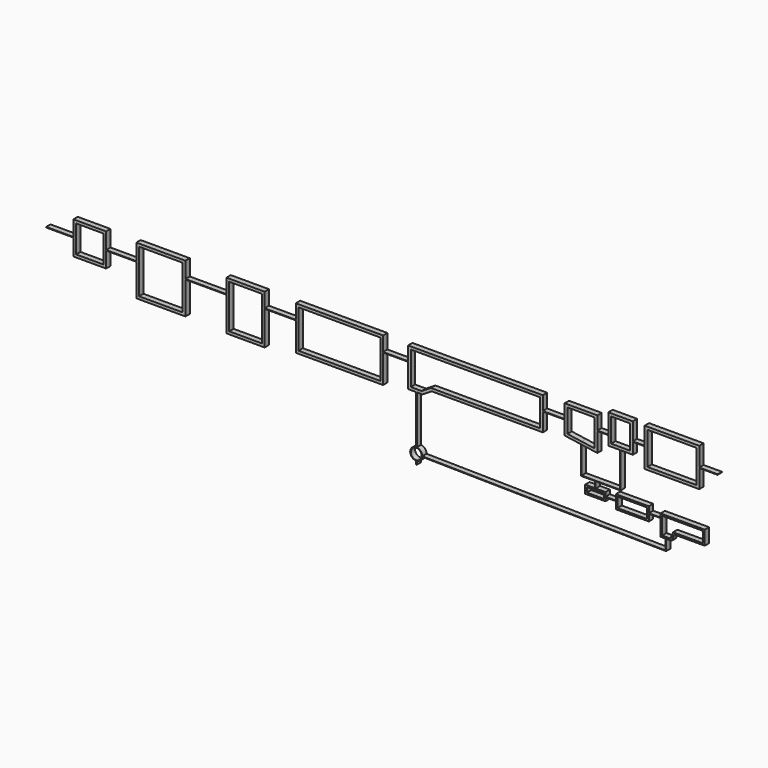
from build123d import *

# Parameters (mm, degrees)
F0_W     = 0.1
F0_H     = 0.5
F0_W_2   = 4.5762195215
F0_H_2   = 0.1
F0_W_3   = 15
F0_H_3   = 7
F0_W_4   = 4
F0_W_5   = 5.7000000263
F0_W_6   = 6
F0_H_4   = 8
F0_W_7   = 2.1349615479
F0_W_8   = 5.4599995956
F0_H_5   = 1.8540623203
F0_H_6   = 1.1455476638
F0_W_9   = 7.5237791166
F0_W_10  = 2
F0_W_11  = 3.1167556109
F0_H_7   = 0.894062461
F0_W_12  = 8
F0_W_13  = 1.8985043958
F0_W_14  = 5.535091728
F0_W_15  = 2.1720023397
F0_W_16  = 5
F0_H_8   = 5
F0_W_17  = 9
F0_H_9   = 6
F0_W_18  = 3.3521689058
F1_DEPTH = 1


with BuildPart() as f1:
    # F0 (on Front) → F1 (new body)
    with BuildSketch(Plane.XZ):
        Polygon((-0.7164276307, -4), (-1.7164276307, -4), (-1.7164276307, 2.0474093835), (21.9873721178, 2.0474093835), (21.9873721178, -2.9525906165), (1.9873721178, -2.9525906165), (0.2835723693, -4), (-0.6164276307, -4), (-0.6164276307, -4.5), (0.4249689693, -4.5), (2.1287687179, -3.4525906165), (22.4873721178, -3.4525906165), (22.4873721178, -0.1), (22.4873721178, 0), (22.4873721178, 2.5474093835), (-2.2164276307, 2.5474093835), (-2.2164276307, 0), (-2.2164276307, -0.1), (-2.2164276307, -4.5), (-0.7164276307, -4.5), align=None)
        with Locations((-0.6664276307, -4.25)):
            Rectangle(F0_W, F0_H)
        with BuildLine():
            Line((-0.6164276307, -4.5), (-0.7164276307, -4.5))
            Line((-0.7164276307, -4.5), (-0.7164276307, -13.3747674979))
            ThreePointArc((-0.7164276307, -13.3747674979), (-0.6663757902, -13.3759068091), (-0.6164276307, -13.3793223828))
            Line((-0.6164276307, -13.3793223828), (-0.6164276307, -4.5))
        make_face()
        with BuildLine():
            ThreePointArc((-0.6164276307, -13.3793223828), (-0.6663757902, -13.3759068091), (-0.7164276307, -13.3747674979))
            ThreePointArc((-0.7164276307, -13.3747674979), (-1.8164276307, -14.4747674979), (-0.7164276307, -15.5747674979))
            Line((-0.7164276307, -15.5747674979), (-0.7164276307, -15.4747674979))
            ThreePointArc((-0.7164276307, -15.4747674979), (-1.4235344119, -13.7676607167), (0.2835723693, -14.4747674979))
            ThreePointArc((0.2835723693, -14.4747674979), (0.025192218, -15.1455878911), (-0.6164276307, -15.469754935))
            Line((-0.6164276307, -15.469754935), (-0.6164276307, -15.5702126129))
            ThreePointArc((-0.6164276307, -15.5702126129), (0.0559267082, -15.2580099731), (0.3775103589, -14.5900917138))
            ThreePointArc((0.3775103589, -14.5900917138), (0.3816245836, -14.5401994065), (0.3834645069, -14.4901715758))
            ThreePointArc((0.3834645069, -14.4901715758), (0.3835454033, -14.4824697256), (0.3835723693, -14.4747674979))
            ThreePointArc((0.3835723693, -14.4747674979), (0.0959762097, -13.7331476491), (-0.6164276307, -13.3793223828))
        make_face()
        with BuildLine():
            Line((-0.7164276307, -15.4747674979), (-0.7164276307, -15.5747674979))
            ThreePointArc((-0.7164276307, -15.5747674979), (-0.6663757902, -15.5736281866), (-0.6164276307, -15.5702126129))
            Line((-0.6164276307, -15.5702126129), (-0.6164276307, -15.469754935))
            ThreePointArc((-0.6164276307, -15.469754935), (-0.6663648557, -15.473513571), (-0.7164276307, -15.4747674979))
        make_face()
        with BuildLine():
            ThreePointArc((-0.6164276307, -15.5702126129), (-0.6663757902, -15.5736281866), (-0.7164276307, -15.5747674979))
            Line((-0.7164276307, -15.5747674979), (-0.7164276307, -16.196783632))
            Line((-0.7164276307, -16.196783632), (-0.6164276307, -16.196783632))
            Line((-0.6164276307, -16.196783632), (-0.6164276307, -15.5702126129))
        make_face()
        with Locations((-4.5045373915, -0.05)):
            Rectangle(F0_W_2, F0_H_2)
        Polygon((-6.7926471522, -5.3350963127), (-6.7926471522, -0.1), (-6.7926471522, 0), (-6.7926471522, 2.6649036873), (-22.7926471522, 2.6649036873), (-22.7926471522, 0), (-22.7926471522, -0.1), (-22.7926471522, -5.3350963127), align=None)
        with Locations((-14.7926471522, -1.3350963127)):
            Rectangle(F0_W_3, F0_H_3, mode=Mode.SUBTRACT)
        with BuildLine():
            Line((44.9668482701, -15.1770115764), (0.3834645069, -14.4901715758))
            ThreePointArc((0.3834645069, -14.4901715758), (0.3816245836, -14.5401994065), (0.3775103589, -14.5900917138))
            Line((0.3775103589, -14.5900917138), (44.9668482701, -15.2770234426))
            Line((44.9668482701, -15.2770234426), (45.0668482701, -15.2785640165))
            Line((45.0668482701, -15.2785640165), (45.0668482701, -15.1785521504))
            Line((45.0668482701, -15.1785521504), (45.0668482701, -13.2785640165))
            Line((45.0668482701, -13.2785640165), (44.9668482701, -13.2785640165))
            Line((44.9668482701, -13.2785640165), (44.9668482701, -15.1770115764))
        make_face()
        with Locations((24.4873721178, -0.05)):
            Rectangle(F0_W_4, F0_H_2)
        Polygon((26.4873721178, 0), (26.4873721178, -0.1), (26.4873721178, -2.6669805495), (29.4873721178, -3.0982994409), (29.5873721178, -3.1126767373), (32.4873721178, -3.5296183324), (32.4873721178, 0), (32.4873721178, 0.1), (32.4873721178, 2.5474093835), (26.4873721178, 2.5474093835), (26.4873721178, 0.0474093835), align=None)
        Polygon((26.9873721178, -2.2337257974), (26.9873721178, 0.0474093835), (26.9873721178, 2.0474093835), (31.9873721178, 2.0474093835), (31.9873721178, -2.9525906165), (29.5873721178, -2.6075355033), align=None, mode=Mode.SUBTRACT)
        Polygon((44.0542930675, -13.2785640165), (44.9668482701, -13.2785640165), (45.0668482701, -13.2785640165), (46.0794034727, -13.2785640165), (46.5562570157, -12.0984218523), (52.1539116397, -12.0984218523), (52.1539116397, -9.4984218523), (44.0542930675, -9.4984218523), (44.0542930675, -10.1705333218), (44.0542930675, -10.2705333218), align=None)
        Polygon((51.8539116397, -11.7984218523), (46.3539116397, -11.7984218523), (45.8770580967, -12.9785640165), (44.3542930675, -12.9785640165), (44.3542930675, -9.7984218523), (51.8539116397, -9.7984218523), align=None, mode=Mode.SUBTRACT)
        with Locations((-25.6426471653, -0.05)):
            Rectangle(F0_W_5, F0_H_2)
        Polygon((-28.4926471785, -6.3350963127), (-28.4926471785, -0.1), (-28.4926471785, 0), (-28.4926471785, 2.6649036873), (-35.4926471785, 2.6649036873), (-35.4926471785, 0), (-35.4926471785, -0.1), (-35.4926471785, -6.3350963127), align=None)
        with Locations((-31.9926471785, -1.8350963127)):
            Rectangle(F0_W_6, F0_H_4, mode=Mode.SUBTRACT)
        Polygon((29.5873721178, -3.1126767373), (29.4873721178, -3.0982994409), (29.4873721178, -8.2004475985), (32.0807600558, -8.2004475985), (32.1807600558, -8.2004475985), (36.7373721178, -8.2004475985), (36.7373721178, -1.7004475985), (36.6373721178, -1.7004475985), (36.6373721178, -8.1004475985), (29.5873721178, -8.1004475985), align=None)
        with Locations((42.9868122936, -10.2205333218)):
            Rectangle(F0_W_7, F0_H_2)
        Polygon((41.9193315196, -11.5084912181), (41.9193315196, -10.2705333218), (41.9193315196, -10.1705333218), (41.9193315196, -9.0544288978), (35.859331924, -9.0544288978), (35.859331924, -10.0930264927), (35.859331924, -10.1930264927), (35.859331924, -11.5084912181), align=None)
        with Locations((38.8893317218, -10.2814600579)):
            Rectangle(F0_W_8, F0_H_5, mode=Mode.SUBTRACT)
        with Locations((32.1307600558, -8.7732214304)):
            Rectangle(F0_W, F0_H_6)
        with Locations((-39.2545367368, -0.05)):
            Rectangle(F0_W_9, F0_H_2)
        with Locations((33.4873721178, 0.05)):
            Rectangle(F0_W_10, F0_H_2)
        Polygon((32.1807600558, -9.3459952623), (32.0807600558, -9.3459952623), (30.2440719174, -9.3459952623), (30.2440719174, -10.8400577232), (33.9608275283, -10.8400577232), (33.9608275283, -10.1930264927), (33.9608275283, -10.0930264927), (33.9608275283, -9.3459952623), align=None)
        with Locations((32.1024497228, -10.0930264927)):
            Rectangle(F0_W_11, F0_H_7, mode=Mode.SUBTRACT)
        Polygon((-43.016426295, -6.0529528502), (-43.016426295, -0.1), (-43.016426295, 0), (-43.016426295, 2.9470471498), (-52.016426295, 2.9470471498), (-52.016426295, -0.0529528502), (-52.016426295, -0.1529528502), (-52.016426295, -6.0529528502), align=None)
        with Locations((-47.516426295, -1.5529528502)):
            Rectangle(F0_W_12, F0_H_4, mode=Mode.SUBTRACT)
        Polygon((34.4873721178, 3.6967870891), (34.4873721178, 0.1), (34.4873721178, 0), (34.4873721178, -1.7004475985), (36.6373721178, -1.7004475985), (36.7373721178, -1.7004475985), (38.9873721178, -1.7004475985), (38.9873721178, 0.3627240414), (38.9873721178, 0.4627240414), (38.9873721178, 3.6967870891), align=None)
        Polygon((34.9873721178, -1.2004475985), (34.9873721178, 0), (34.9873721178, 3.1967870891), (38.4873721178, 3.1967870891), (38.4873721178, -1.2004475985), align=None, mode=Mode.SUBTRACT)
        with Locations((34.9100797262, -10.1430264927)):
            Rectangle(F0_W_13, F0_H_2)
        with Locations((-54.783972159, -0.1029528502)):
            Rectangle(F0_W_14, F0_H_2)
        with Locations((40.0733732877, 0.4127240414)):
            Rectangle(F0_W_15, F0_H_2)
        Polygon((-57.551518023, -3.0529528502), (-57.551518023, -0.1529528502), (-57.551518023, -0.0529528502), (-57.551518023, 2.9470471498), (-63.551518023, 2.9470471498), (-63.551518023, 0.1), (-63.551518023, 0), (-63.551518023, -3.0529528502), align=None)
        with Locations((-60.551518023, -0.0529528502)):
            Rectangle(F0_W_16, F0_H_8, mode=Mode.SUBTRACT)
        Polygon((41.1593744576, 3.7098635044), (41.1593744576, 0.4627240414), (41.1593744576, 0.3627240414), (41.1593744576, -3.2901364956), (51.1593744576, -3.2901364956), (51.1593744576, 0.1098635044), (51.1593744576, 0.2098635044), (51.1593744576, 3.7098635044), align=None)
        with Locations((46.1593744576, 0.2098635044)):
            Rectangle(F0_W_17, F0_H_9, mode=Mode.SUBTRACT)
        with Locations((-66.051518023, 0.05)):
            Rectangle(F0_W_16, F0_H_2)
        with Locations((52.8354589105, 0.1598635044)):
            Rectangle(F0_W_18, F0_H_2)
    extrude(amount=F1_DEPTH)


solid = f1.part
